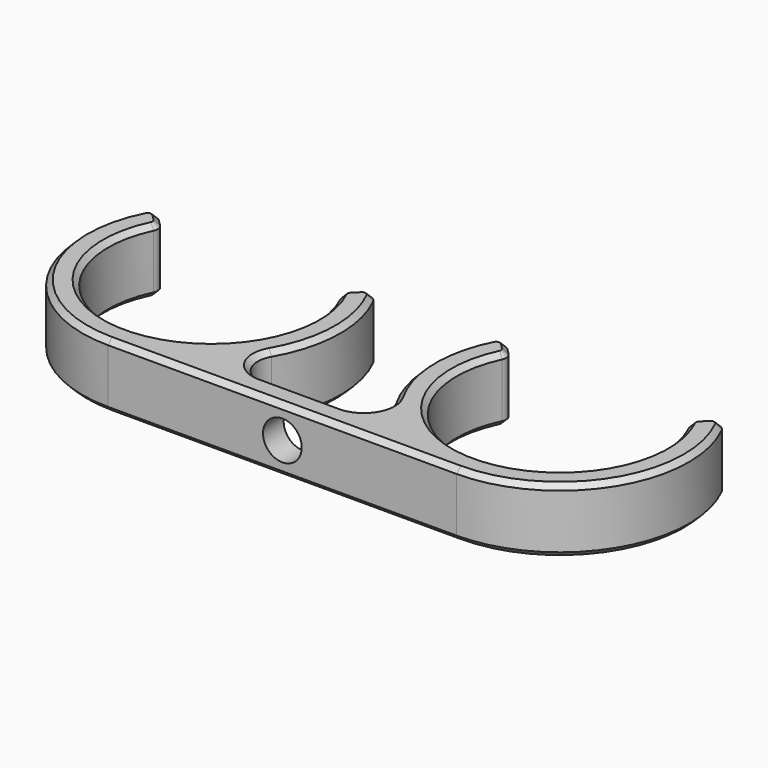
from build123d import *

# Parameters (mm, degrees)
F1_DEPTH = 5
F2_R     = 0.7
F3_R     = 2
F4_SIZE  = 0.4
F5_R     = 1.5
F6_DEPTH = 2.001


with BuildPart() as f1:
    # F0 (on Top) → F1 (new body)
    with BuildSketch(Plane.XY):
        with BuildLine():
            ThreePointArc((-7.5, -8), (-3.665936, -1.814164), (-5.040446, 5.332537))
            Line((-5.040446, 5.332537), (-6.5, 3.872983))
            ThreePointArc((-6.5, 3.872983), (-13.5, -8), (-20.5, 3.872983))
            Line((-20.5, 3.872983), (-21.959554, 5.332537))
            ThreePointArc((-21.959554, 5.332537), (-22.255723, -4.830871), (-13.5, -10))
            ThreePointArc((-13.5, -10), (-10.337722, -9.486833), (-7.5, -8))
        make_face()
        with BuildLine():
            Line((7.5, -8), (-7.5, -8))
            ThreePointArc((-7.5, -8), (-10.337722, -9.486833), (-13.5, -10))
            Line((-13.5, -10), (13.5, -10))
            ThreePointArc((13.5, -10), (10.337722, -9.486833), (7.5, -8))
        make_face()
        with BuildLine():
            ThreePointArc((5.040446, 5.332537), (3.665936, -1.814164), (7.5, -8))
            ThreePointArc((7.5, -8), (10.337722, -9.486833), (13.5, -10))
            ThreePointArc((13.5, -10), (22.255723, -4.830871), (21.959554, 5.332537))
            Line((21.959554, 5.332537), (20.5, 3.872983))
            ThreePointArc((20.5, 3.872983), (13.5, -8), (6.5, 3.872983))
            Line((6.5, 3.872983), (5.040446, 5.332537))
        make_face()
    extrude(amount=F1_DEPTH)

    # F2
    f2_edges = [f1.edges().sort_by_distance(p)[0] for p in [
        (5.040446, 5.332537, 2.5),
        (6.5, 3.872983, 2.5),
        (20.5, 3.872983, 2.5),
        (21.959554, 5.332537, 2.5),
        (-5.040446, 5.332537, 2.5),
        (-6.5, 3.872983, 2.5),
        (-21.959554, 5.332537, 2.5),
        (-20.5, 3.872983, 2.5),
    ]]
    fillet(f2_edges, radius=F2_R)

    # F3
    f3_edges = [f1.edges().sort_by_distance(p)[0] for p in [
        (-7.5, -8, 2.5),
        (7.5, -8, 2.5),
    ]]
    fillet(f3_edges, radius=F3_R)

    # F4
    f4_edges = [f1.edges().sort_by_distance(p)[0] for p in [
        (3.504001, -0.282849, 0),
        (4.839746, -7, 0),
        (5.084945, 4.878277, 0),
        (0, -8, 0),
        (5.915081, 4.457902, 0),
        (-4.839746, -7, 0),
        (6.334145, 3.857567, 0),
        (-3.504001, -0.282849, 0),
        (13.5, -8, 0),
        (-5.084945, 4.878277, 0),
        (20.665855, 3.857567, 0),
        (-5.915081, 4.457902, 0),
        (21.084919, 4.457902, 0),
        (-6.334145, 3.857567, 0),
        (21.915055, 4.878277, 0),
        (-13.5, -8, 0),
        (22.015365, -5.242954, 0),
        (-20.665855, 3.857567, 0),
        (0, -10, 0),
        (-21.084919, 4.457902, 0),
        (-22.015365, -5.242954, 0),
        (-21.915055, 4.878277, 0),
        (3.504001, -0.282849, 5),
        (4.839746, -7, 5),
        (5.084945, 4.878277, 5),
        (0, -8, 5),
        (5.915081, 4.457902, 5),
        (-4.839746, -7, 5),
        (6.334145, 3.857567, 5),
        (-3.504001, -0.282849, 5),
        (13.5, -8, 5),
        (-5.084945, 4.878277, 5),
        (20.665855, 3.857567, 5),
        (-5.915081, 4.457902, 5),
        (21.084919, 4.457902, 5),
        (-6.334145, 3.857567, 5),
        (21.915055, 4.878277, 5),
        (-13.5, -8, 5),
        (22.015365, -5.242954, 5),
        (-20.665855, 3.857567, 5),
        (0, -10, 5),
        (-21.084919, 4.457902, 5),
        (-22.015365, -5.242954, 5),
        (-21.915055, 4.878277, 5),
    ]]
    chamfer(f4_edges, length=F4_SIZE)

    # F5 (on face) → F6 (cut, through all)
    with BuildSketch(Plane(origin=(0, -8, 0), x_dir=(-1, 0, 0), z_dir=(0, 1, 0))):
        with Locations((0, 2.5)):
            Circle(F5_R)
    extrude(amount=-F6_DEPTH, mode=Mode.SUBTRACT)


solid = f1.part
